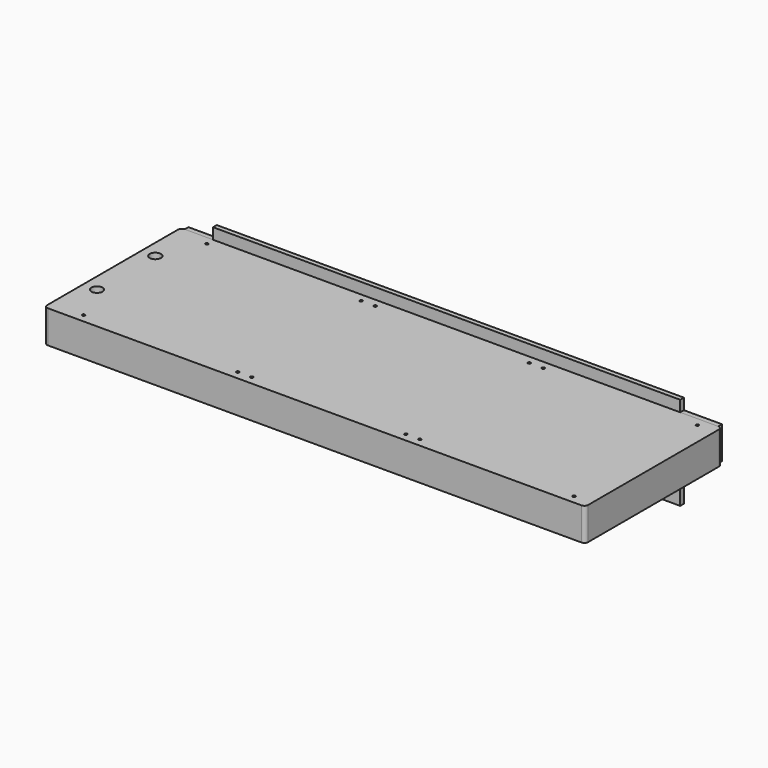
from build123d import *

# Parameters (mm, degrees)
F0_R     = 1.5
F0_R_2   = 6
F1_DEPTH = 35
F2_START = 20
F2_DEPTH = 15
F3_W     = 571
F3_H     = 35
F4_DEPTH = 5
F5_W     = 500
F5_H     = 100
F6_DEPTH = 5


with BuildPart() as f1:
    # F0 (on Top) → F1 (new body)
    with BuildSketch(Plane.XY):
        with BuildLine():
            Line((290.1270191669, 53.3027102947), (-280.8729808331, 53.3027102947))
            ThreePointArc((-280.8729808331, 53.3027102947), (-283.7014079578, 52.1311374195), (-284.8729808331, 49.3027102947))
            Line((-284.8729808331, 49.3027102947), (-284.8729808331, -125.6972897053))
            ThreePointArc((-284.8729808331, -125.6972897053), (-283.7014079578, -128.52571683), (-280.8729808331, -129.6972897053))
            Line((-280.8729808331, -129.6972897053), (290.1270191669, -129.6972897053))
            ThreePointArc((290.1270191669, -129.6972897053), (292.9554462917, -128.52571683), (294.1270191669, -125.6972897053))
            Line((294.1270191669, -125.6972897053), (294.1270191669, 49.3027102947))
            ThreePointArc((294.1270191669, 49.3027102947), (292.9554462917, 52.1311374195), (290.1270191669, 53.3027102947))
        make_face()
        with Locations((-249.8729808331, -120.6972897053)):
            Circle(F0_R, mode=Mode.SUBTRACT)
        with Locations((-84.8729808331, -120.6972897053)):
            Circle(F0_R, mode=Mode.SUBTRACT)
        with Locations((-69.8729808331, -120.6972897053)):
            Circle(F0_R, mode=Mode.SUBTRACT)
        with Locations((-269.8729808331, -77.6972897053)):
            Circle(F0_R_2, mode=Mode.SUBTRACT)
        with Locations((95.1270191669, -120.6972897053)):
            Circle(F0_R, mode=Mode.SUBTRACT)
        with Locations((110.1270191669, -120.6972897053)):
            Circle(F0_R, mode=Mode.SUBTRACT)
        with Locations((275.1270191669, -120.6972897053)):
            Circle(F0_R, mode=Mode.SUBTRACT)
        with Locations((-269.8729808331, 0.3027102947)):
            Circle(F0_R_2, mode=Mode.SUBTRACT)
        with Locations((-249.8729808331, 44.3027102947)):
            Circle(F0_R, mode=Mode.SUBTRACT)
        with Locations((-84.8729808331, 44.3027102947)):
            Circle(F0_R, mode=Mode.SUBTRACT)
        with Locations((-69.8729808331, 44.3027102947)):
            Circle(F0_R, mode=Mode.SUBTRACT)
        with Locations((95.1270191669, 44.3027102947)):
            Circle(F0_R, mode=Mode.SUBTRACT)
        with Locations((110.1270191669, 44.3027102947)):
            Circle(F0_R, mode=Mode.SUBTRACT)
        with Locations((275.1270191669, 44.3027102947)):
            Circle(F0_R, mode=Mode.SUBTRACT)
        with Locations((-269.8729808331, 0.3027102947)):
            Circle(F0_R_2)
        with Locations((-269.8729808331, -77.6972897053)):
            Circle(F0_R_2)
    extrude(amount=F1_DEPTH)

    # F0 (on Top) → F2 (cut)
    with BuildSketch(Plane.XY.offset(F2_START)):
        with Locations((-269.8729808331, -77.6972897053)):
            Circle(F0_R_2)
        with Locations((-269.8729808331, 0.3027102947)):
            Circle(F0_R_2)
    extrude(amount=F2_DEPTH, mode=Mode.SUBTRACT)


with BuildPart() as f4:
    # F3 (on face) → F4 (new body)
    with BuildSketch(Plane(origin=(0, 53.3027102947, 0), x_dir=(-1, 0, 0), z_dir=(0, 1, 0))):
        with Locations((-4.6270191669, 17.5)):
            Rectangle(F3_W, F3_H)
    extrude(amount=F4_DEPTH)


with BuildPart() as f6:
    # F5 (on face) → F6 (new body)
    with BuildSketch(Plane(origin=(0, 53.3027102947, 0), x_dir=(-1, 0, 0), z_dir=(0, 1, 0))):
        with Locations((0.5285963416, -3.1710242811)):
            Rectangle(F5_W, F5_H)
    extrude(amount=F6_DEPTH)


solid = Compound([f1.part, f4.part, f6.part])
